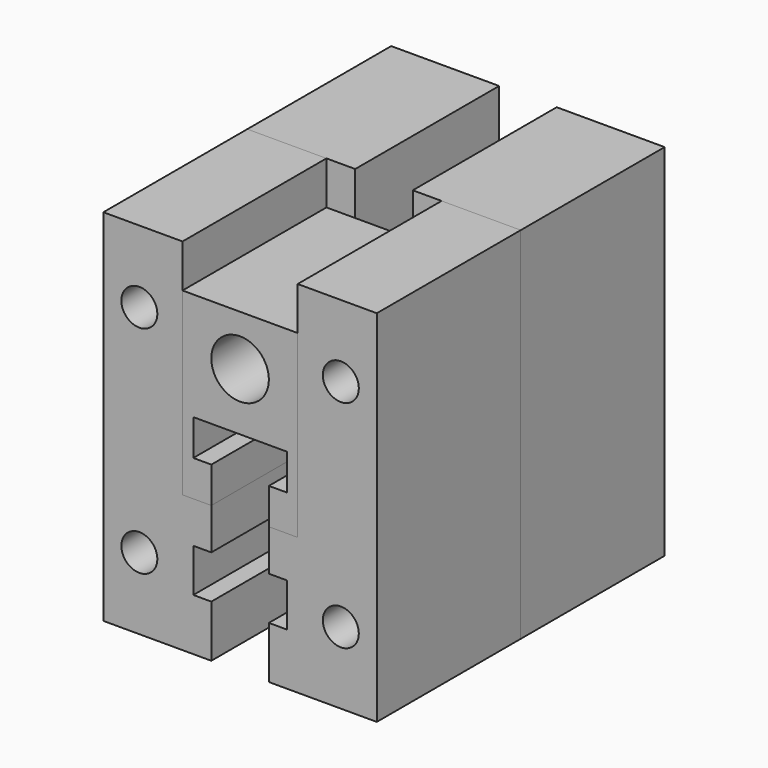
from build123d import *

# Parameters (mm, degrees)
F0_R     = 2.5
F0_W     = 13
F0_H     = 6.019222
F1_DEPTH = 25
F2_R     = 2.5
F3_DEPTH = 25
F4_R     = 4
F5_DEPTH = 25


with BuildPart() as f1:
    # F0 (on Front) → F1 (new body)
    with BuildSketch(Plane.XZ):
        Polygon((0, 50), (0, 0), (38, 0), (38, 50), (23, 50), (23, 25), (15, 25), (15, 50), align=None)
        with Locations((5, 10)):
            Circle(F0_R, mode=Mode.SUBTRACT)
        with Locations((19, 10.247186)):
            Rectangle(F0_W, F0_H, mode=Mode.SUBTRACT)
        with Locations((33, 10)):
            Circle(F0_R, mode=Mode.SUBTRACT)
        with Locations((5, 40)):
            Circle(F0_R, mode=Mode.SUBTRACT)
        with Locations((33, 40)):
            Circle(F0_R, mode=Mode.SUBTRACT)
    extrude(amount=F1_DEPTH)


with BuildPart() as f3:
    # F2 (on face) → F3 (new body)
    with BuildSketch(Plane.XZ.offset(25)):
        Polygon((11, 19), (11, 50), (0, 50), (0, 0), (11, 0), (15, 0), (15, 7.237575), (12.5, 7.237575), (12.5, 13.256797), (15, 13.256797), (15, 19), align=None)
        with Locations((5, 10)):
            Circle(F2_R, mode=Mode.SUBTRACT)
        with Locations((5, 40)):
            Circle(F2_R, mode=Mode.SUBTRACT)
        Polygon((27, 0), (38, 0), (38, 50), (27, 50), (27, 19), (23, 19), (23, 13.256797), (25.5, 13.256797), (25.5, 7.237575), (23, 7.237575), (23, 0), align=None)
        with Locations((33, 10)):
            Circle(F2_R, mode=Mode.SUBTRACT)
        with Locations((33, 40)):
            Circle(F2_R, mode=Mode.SUBTRACT)
    extrude(amount=F3_DEPTH)


with BuildPart() as f5:
    # F4 (on face) → F5 (new body)
    with BuildSketch(Plane.XZ.offset(50)):
        Polygon((23, 19), (27, 19), (27, 44), (11, 44), (11, 19), (15, 19), (15, 24), (12.5, 24), (12.5, 29), (25.5, 29), (25.5, 24), (23, 24), align=None)
        with Locations((19, 37)):
            Circle(F4_R, mode=Mode.SUBTRACT)
    extrude(amount=-F5_DEPTH)


solid = Compound([f1.part, f3.part, f5.part])
